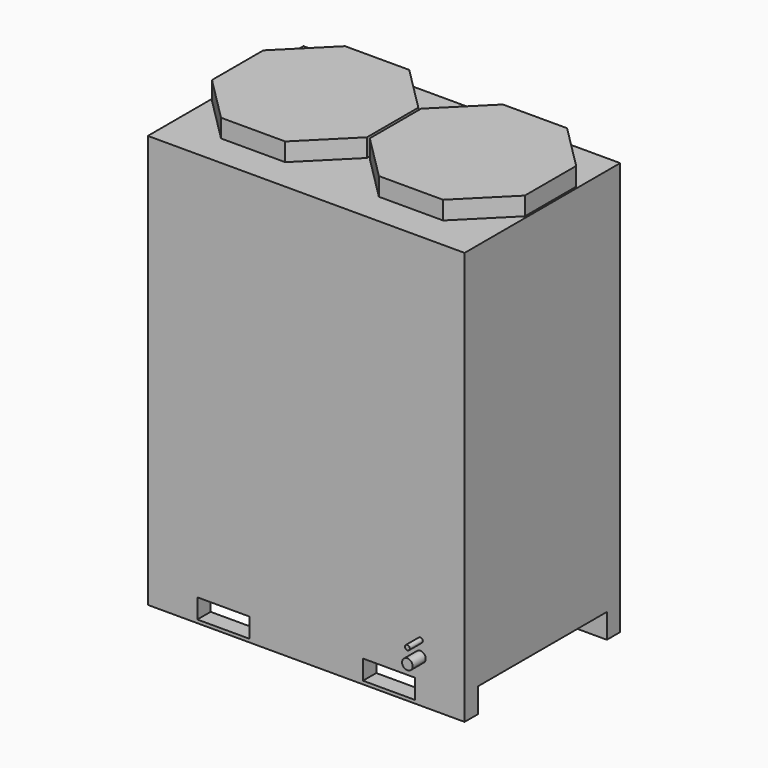
from build123d import *

# Parameters (mm, degrees)
F0_W     = 1235.329
F0_H     = 1610.36
F0_W_2   = 203.2
F0_H_2   = 76.2
F1_DEPTH = 758.444
F2_W     = 628.904
F2_H     = 203.2
F3_DEPTH = 1235.33
F5_DEPTH = 71.12
F6_R     = 20.6375
F6_R_2   = 9.525
F7_DEPTH = 63.5


with BuildPart() as f1:
    # F0 (on Front) → F1 (new body)
    with BuildSketch(Plane.XZ):
        with Locations((617.6645, 805.18)):
            Rectangle(F0_W, F0_H)
        with Locations((294.64, 50.8)):
            Rectangle(F0_W_2, F0_H_2, mode=Mode.SUBTRACT)
        with Locations((940.689, 50.8)):
            Rectangle(F0_W_2, F0_H_2, mode=Mode.SUBTRACT)
    extrude(amount=F1_DEPTH)

    # F2 (on face) → F3 (cut, through all)
    with BuildSketch(Plane(origin=(0, 0, 0), x_dir=(0, -1, 0), z_dir=(-1, 0, 0))):
        with Locations((379.222, -5.842)):
            Rectangle(F2_W, F2_H)
    extrude(amount=-F3_DEPTH, mode=Mode.SUBTRACT)

    # F4 (on face) → F5 (join)
    with BuildSketch(Plane.XY.offset(1610.36)):
        Polygon((435.080191, -632.46), (612.14, -455.400191), (612.14, -204.999809), (435.080191, -27.94), (184.679809, -27.94), (7.62, -204.999809), (7.62, -455.400191), (184.679809, -632.46), align=None)
        Polygon((1050.649191, -632.46), (1227.709, -455.400191), (1227.709, -204.999809), (1050.649191, -27.94), (800.248809, -27.94), (623.189, -204.999809), (623.189, -455.400191), (800.248809, -632.46), align=None)
    extrude(amount=F5_DEPTH)

    # F6 (on face) → F7 (join)
    with BuildSketch(Plane.XZ.offset(758.444)):
        with Locations((1062.99, 167.64)):
            Circle(F6_R)
        with Locations((1062.99, 224.79)):
            Circle(F6_R_2)
    extrude(amount=F7_DEPTH)


solid = f1.part
